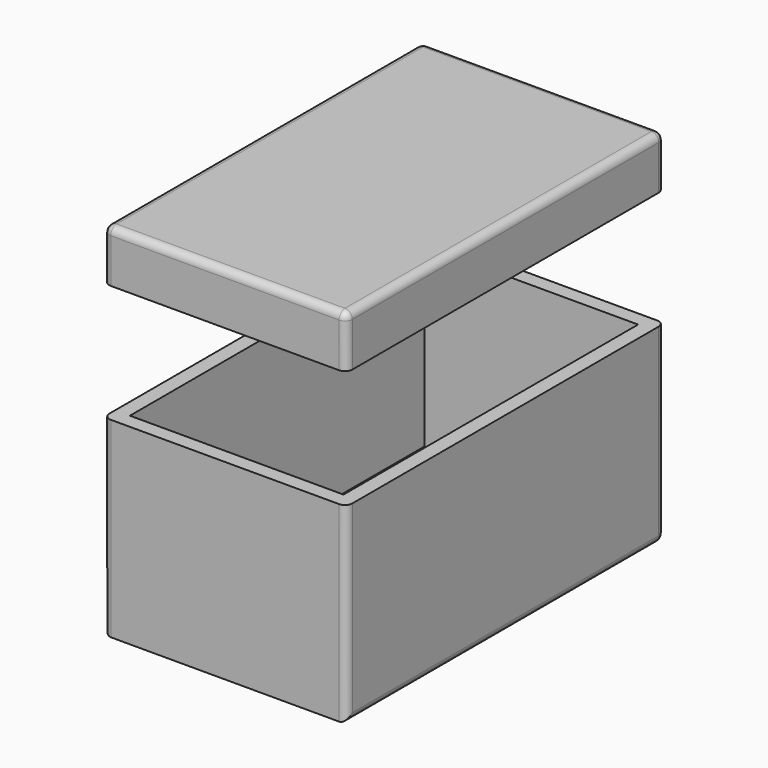
from build123d import *

# Parameters (mm, degrees)
F0_W     = 209.55
F0_H     = 44.45
F1_DEPTH = 342.9
F0_H_2   = 165.1
F2_T     = -12.7
F2_2_T   = -12.7
F3_R     = 6.35
F3_2_R   = 6.35


with BuildPart() as f1:
    # F0 (on Front) → F1 (new body)
    with BuildSketch(Plane.XZ):
        with Locations((0, 206.375)):
            Rectangle(F0_W, F0_H)
    extrude(amount=F1_DEPTH)

    # F2#2
    f2_2_openings = [f1.faces().sort_by_distance(p)[0] for p in [
        (0, -171.45, 184.15),
    ]]
    offset(amount=F2_2_T, openings=f2_2_openings)

    # F3
    f3_edges = [f1.edges().sort_by_distance(p)[0] for p in [
        (104.775, -342.9, 206.375),
        (104.775, 0, 206.375),
        (104.775, -171.45, 228.6),
        (0, 0, 228.6),
        (-104.775, -171.45, 228.6),
        (0, -342.9, 228.6),
        (-104.775, -342.9, 206.375),
        (-104.775, 0, 206.375),
    ]]
    fillet(f3_edges, radius=F3_R)


with BuildPart() as f1b:
    # F0 (on Front) → F1, piece 2 (new body)
    with BuildSketch(Plane.XZ):
        Rectangle(F0_W, F0_H_2)
    extrude(amount=F1_DEPTH)

    # F2
    f2_openings = [f1b.faces().sort_by_distance(p)[0] for p in [
        (0, -171.45, 82.55),
    ]]
    offset(amount=F2_T, openings=f2_openings)

    # F3#2
    f3_2_edges = [f1b.edges().sort_by_distance(p)[0] for p in [
        (104.775, -342.9, 0),
        (-104.775, -342.9, 0),
        (104.775, -171.45, -82.55),
        (104.775, 0, 0),
        (-104.775, 0, 0),
        (0, 0, -82.55),
        (-104.775, -171.45, -82.55),
    ]]
    fillet(f3_2_edges, radius=F3_2_R)


solid = Compound([f1.part, f1b.part])
